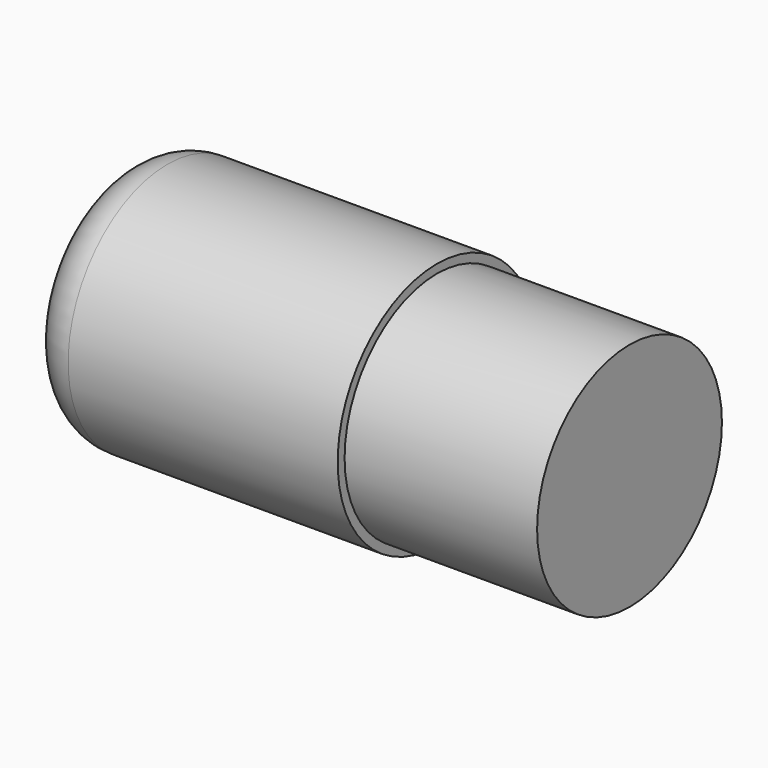
from build123d import *


with BuildPart() as f1:
    # F0 (on Front) → F1 (revolve)
    with BuildSketch(Plane.XZ):
        with BuildLine():
            Line((0, 3.225), (-7, 3.225))
            ThreePointArc((-7, 3.225), (-7.848528, 2.873528), (-8.2, 2.025))
            Line((-8.2, 2.025), (-8.2, 0))
            Line((-8.2, 0), (5, 0))
            Line((5, 0), (5, 3))
            Line((5, 3), (0, 3))
            Line((0, 3), (0, 3.225))
        make_face()
    revolve(axis=Axis((-1.6, 0, 0), (1, 0, 0)))


solid = f1.part
